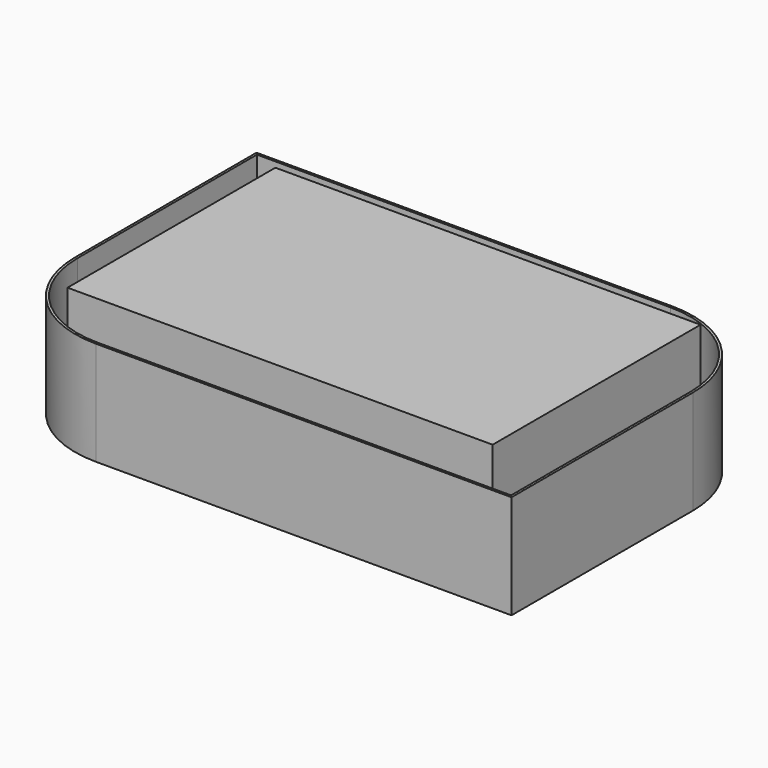
from build123d import *

# Parameters (mm, degrees)
F1_DEPTH = 22
F2_T     = -0.5
F3_W     = 90
F3_H     = 55
F4_DEPTH = 25


with BuildPart() as f1:
    # F0 (on Top) → F1 (new body)
    with BuildSketch(Plane.XY):
        with BuildLine():
            ThreePointArc((55, 13), (48.556349, 28.556349), (33, 35))
            Line((33, 35), (-55, 35))
            Line((-55, 35), (-55, -13))
            ThreePointArc((-55, -13), (-48.556349, -28.556349), (-33, -35))
            Line((-33, -35), (55, -35))
            Line((55, -35), (55, 13))
        make_face()
    extrude(amount=F1_DEPTH)

    # F2
    f2_openings = [f1.faces().sort_by_distance(p)[0] for p in [
        (0, 0, 22),
    ]]
    offset(amount=F2_T, openings=f2_openings)


with BuildPart() as f4:
    # F3 (on face) → F4 (new body)
    with BuildSketch(Plane.XY.offset(0.5)):
        Rectangle(F3_W, F3_H)
    extrude(amount=F4_DEPTH)


solid = Compound([f1.part, f4.part])
